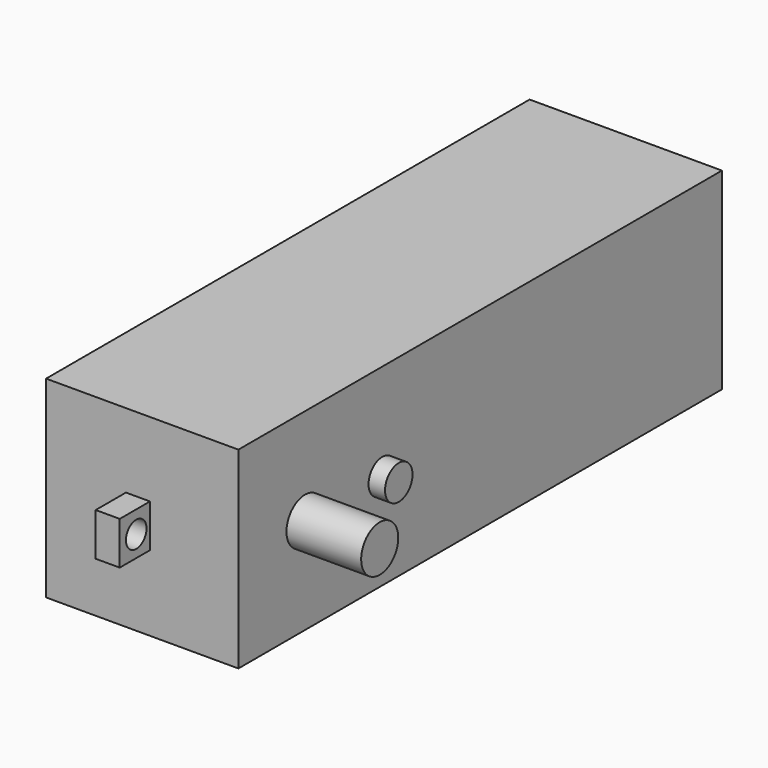
from build123d import *

# Parameters (mm, degrees)
BOX_W                     = 70.4
BOX_H                     = 22.44
BOX_DEPTH                 = 22.4
CYLINDER_R                = 1.5
CYLINDER_DEPTH            = 10
BOX001_W                  = 4.8
BOX001_H                  = 5
BOX001_DEPTH              = 2.8
CYLINDER001_R             = 2.7
CYLINDER001_DEPTH         = 8.7
CYLINDER002_R             = 2
CYLINDER002_DEPTH         = 1.92
FUSION002_ROLL_ANGLE      = -90
FUSION002_PLACEMENT_ANGLE = -90


with BuildPart() as base:
    # Box → Box (new body)
    with BuildSketch(Plane.XY):
        with Locations((35.2, 11.22)):
            Rectangle(BOX_W, BOX_H)
    extrude(amount=BOX_DEPTH)


with BuildPart() as cylinder:
    # Cylinder → Cylinder (new body)
    with BuildSketch(Plane(origin=(72.4, 11.22, 8.3), x_dir=(1, 0, 0), z_dir=(0, 0, 1))):
        Circle(CYLINDER_R)
    extrude(amount=CYLINDER_DEPTH)


with BuildPart() as fusion:
    # Box001 → Box001 (new body)
    with BuildSketch(Plane(origin=(70, 8.66, 9.3), x_dir=(1, 0, 0), z_dir=(0, 0, 1))):
        with Locations((2.4, 2.5)):
            Rectangle(BOX001_W, BOX001_H)
    extrude(amount=BOX001_DEPTH)

    # Cut: cut Cylinder
    add(cylinder.part, mode=Mode.SUBTRACT)

    # Fusion: union Base
    add(base.part)


with BuildPart() as fusion001:
    # Cylinder001 → Cylinder001 (new body)
    with BuildSketch(Plane(origin=(60.75, 11.22, 22.44), x_dir=(1, 0, 0), z_dir=(0, 0, 1))):
        Circle(CYLINDER001_R)
    extrude(amount=CYLINDER001_DEPTH)

    # Fusion001: union Fusion
    add(fusion.part)


with BuildPart() as motor:
    # Cylinder002 → Cylinder002 (new body)
    with BuildSketch(Plane(origin=(49.5, 11.22, 22.44), x_dir=(1, 0, 0), z_dir=(0, 0, 1))):
        Circle(CYLINDER002_R)
    extrude(amount=CYLINDER002_DEPTH)

    # Fusion002: union Fusion001
    add(fusion001.part)


with BuildPart() as motor_1:
    # Fusion002 roll: moved
    add(motor.part.rotate(Axis((0, 0, 0), (1, 0, 0)), FUSION002_ROLL_ANGLE))


with BuildPart() as motor_2:
    # Fusion002 placement: moved
    add(motor_1.part.moved(Location((289, 70, -50))).rotate(Axis((289, 70, -50), (0, 0, 1)), FUSION002_PLACEMENT_ANGLE))


solid = motor_2.part
